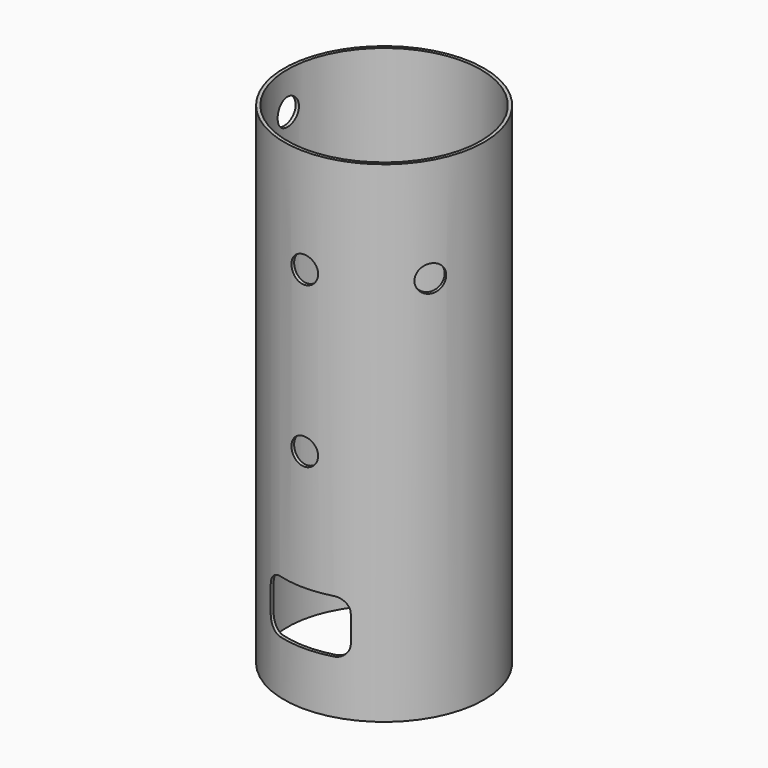
from build123d import *

# Parameters (mm, degrees)
F0_R          = 37.5
F0_R_2        = 36.25
F1_DEPTH      = 184
F2_R          = 5
F3_DEPTH      = 50
F4_R          = 5
F5_DEPTH      = 70
F5_DEPTH_BACK = 25
F7_DEPTH      = 70
F8_R          = 5
F9_DEPTH      = 60
F12_R         = 5
F13_DEPTH     = 100


with BuildPart() as f1:
    # F0 (on Top) → F1 (new body)
    with BuildSketch(Plane.XY):
        Circle(F0_R)
        Circle(F0_R_2, mode=Mode.SUBTRACT)
    extrude(amount=F1_DEPTH)

    # F2 (on Right) → F3 (cut)
    with BuildSketch(Plane.YZ):
        with Locations((0, 170)):
            Circle(F2_R)
    extrude(amount=-F3_DEPTH, mode=Mode.SUBTRACT)

    # F4 (on Front) → F5 (cut, two sides)
    with BuildSketch(Plane.XZ) as f5_sk:
        with Locations((0, 85)):
            Circle(F4_R)
        with Locations((0, 145)):
            Circle(F4_R)
    extrude(amount=F5_DEPTH, mode=Mode.SUBTRACT)
    extrude(f5_sk.sketch, amount=-F5_DEPTH_BACK, mode=Mode.SUBTRACT)

    # F6 (on Front) → F7 (cut)
    with BuildSketch(Plane.XZ):
        with BuildLine():
            Line((-10, 20), (10, 20))
            ThreePointArc((10, 20), (13.535534, 21.464466), (15, 25))
            Line((15, 25), (15, 35))
            ThreePointArc((15, 35), (13.535534, 38.535534), (10, 40))
            Line((10, 40), (-10, 40))
            ThreePointArc((-10, 40), (-13.535534, 38.535534), (-15, 35))
            Line((-15, 35), (-15, 25))
            ThreePointArc((-15, 25), (-13.535534, 21.464466), (-10, 20))
        make_face()
    extrude(amount=F7_DEPTH, mode=Mode.SUBTRACT)

    # F8 (on Right) → F9 (cut)
    with BuildSketch(Plane.YZ):
        with Locations((0, 90)):
            Circle(F8_R)
    extrude(amount=-F9_DEPTH, mode=Mode.SUBTRACT)

    # F12 (on face) → F13 (cut)
    with BuildSketch(Plane(origin=(0, 0, 0), x_dir=(0.5, 0.866025, 0), z_dir=(0.866025, -0.5, 0))):
        with Locations((0, 145)):
            Circle(F12_R)
    extrude(amount=F13_DEPTH, mode=Mode.SUBTRACT)


solid = f1.part
